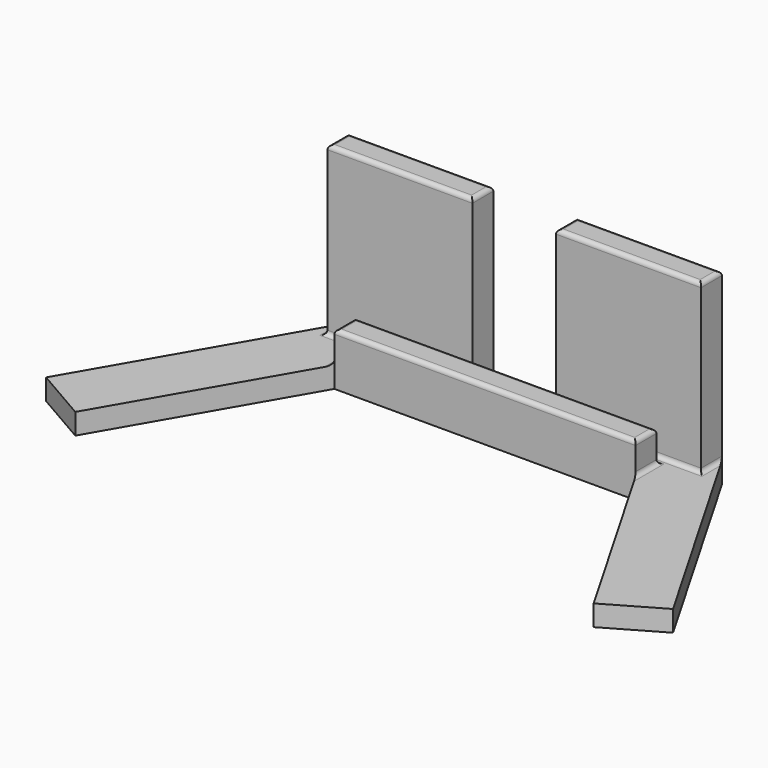
from build123d import *

# Parameters (mm, degrees)
F1_DEPTH = 6.35
F2_W     = 44.055171
F2_H     = 7.9375
F3_DEPTH = 50.8
F4_W     = 91.513296
F4_H     = 7.9375
F5_DEPTH = 9.525
F6_R     = 1.27


with BuildPart() as f1:
    # F0 (on Top) → F1 (new body)
    with BuildSketch(Plane.XY):
        Polygon((56.755171, 0), (-56.755171, 0), (-95.25, -66.675), (-78.752216, -76.2), (-45.756648, -19.05), (0, -19.05), (45.756648, -19.05), (78.752216, -76.2), (95.25, -66.675), align=None)
    extrude(amount=F1_DEPTH)

    # F2 (on face) → F3 (join)
    with BuildSketch(Plane.XY.offset(6.35)):
        with Locations((-34.727585, -3.96875)):
            Rectangle(F2_W, F2_H)
        with Locations((34.727585, -3.96875)):
            Rectangle(F2_W, F2_H)
    extrude(amount=F3_DEPTH)

    # F4 (on face) → F5 (join)
    with BuildSketch(Plane.XY.offset(6.35)):
        with Locations((0, -15.08125)):
            Rectangle(F4_W, F4_H)
    extrude(amount=F5_DEPTH)

    # F6
    f6_edges = [f1.edges().sort_by_distance(p)[0] for p in [
        (-45.756648, -15.08125, 15.875),
        (0, -19.05, 15.875),
        (45.756648, -15.08125, 15.875),
        (0, -11.1125, 15.875),
        (-34.727585, 0, 57.15),
        (-56.755171, -3.96875, 57.15),
        (-34.727585, -7.9375, 57.15),
        (-12.7, -3.96875, 57.15),
        (34.727585, -7.9375, 57.15),
        (56.755171, -3.96875, 57.15),
        (34.727585, 0, 57.15),
        (12.7, -3.96875, 57.15),
        (-56.755171, -3.96875, 6.35),
        (-34.727585, -7.9375, 6.35),
        (-45.756648, -15.08125, 6.35),
        (0, -11.1125, 6.35),
        (34.727585, -7.9375, 6.35),
        (45.756648, -15.08125, 6.35),
        (56.755171, -3.96875, 6.35),
    ]]
    fillet(f6_edges, radius=F6_R)


solid = f1.part
